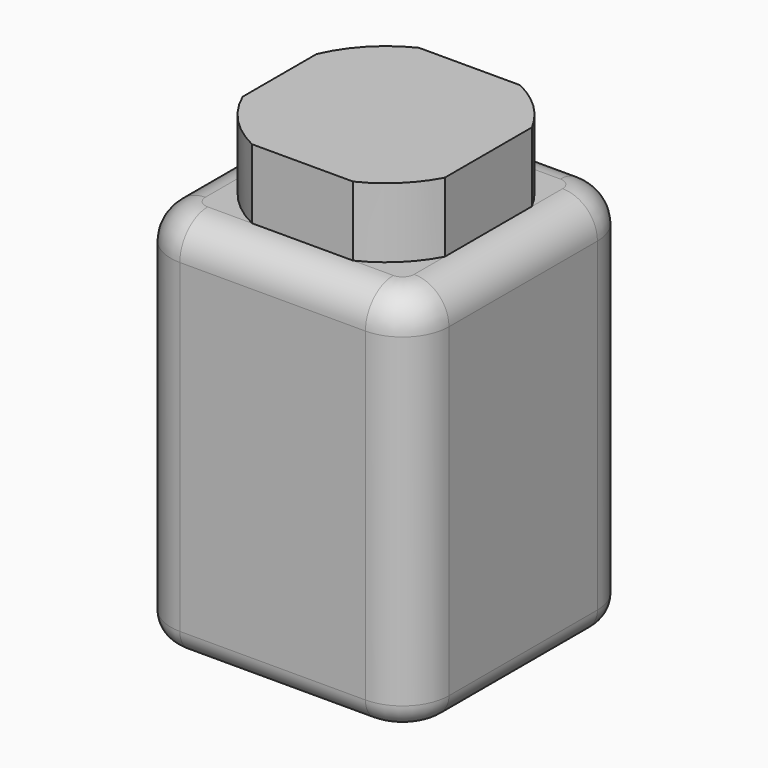
from build123d import *

# Parameters (mm, degrees)
F1_DEPTH = 165
F2_R     = 10
F3_R     = 15
F5_DEPTH = 30


with BuildPart() as f1:
    # F0 (on Top) → F1 (new body)
    with BuildSketch(Plane.XY):
        with BuildLine():
            Line((-20, 60), (-100, 60))
            ThreePointArc((-100, 60), (-114.1421356237, 54.1421356237), (-120, 40))
            Line((-120, 40), (-120, -40))
            ThreePointArc((-120, -40), (-114.1421356237, -54.1421356237), (-100, -60))
            Line((-100, -60), (-20, -60))
            ThreePointArc((-20, -60), (-5.8578643763, -54.1421356237), (0, -40))
            Line((0, -40), (0, 40))
            ThreePointArc((0, 40), (-5.8578643763, 54.1421356237), (-20, 60))
        make_face()
    extrude(amount=F1_DEPTH)

    # F2
    f2_edges = [f1.edges().sort_by_distance(p)[0] for p in [
        (-60, -60, 0),
        (-114.142136, -54.142136, 0),
        (-5.857864, -54.142136, 0),
    ]]
    fillet(f2_edges, radius=F2_R)

    # F3
    f3_edges = [f1.edges().sort_by_distance(p)[0] for p in [
        (-60, 60, 165),
    ]]
    fillet(f3_edges, radius=F3_R)

    # F4 (on face) → F5 (join)
    with BuildSketch(Plane.XY.offset(165)):
        with BuildLine():
            Line((-15, -23.4956587879), (-15, 23.4956587879))
            ThreePointArc((-15, 23.4956587879), (-24.4613681652, 36.0235398418), (-37.3411373512, 45))
            Line((-37.3411373512, 45), (-80.9301267866, 45))
            ThreePointArc((-80.9301267866, 45), (-95.2159754206, 34.6151530926), (-105, 19.9112971522))
            Line((-105, 19.9112971522), (-105, -19.9112971522))
            ThreePointArc((-105, -19.9112971522), (-95.2159754206, -34.6151530926), (-80.9301267866, -45))
            Line((-80.9301267866, -45), (-37.3411373512, -45))
            ThreePointArc((-37.3411373512, -45), (-24.4613681652, -36.0235398418), (-15, -23.4956587879))
        make_face()
    extrude(amount=F5_DEPTH)


solid = f1.part
